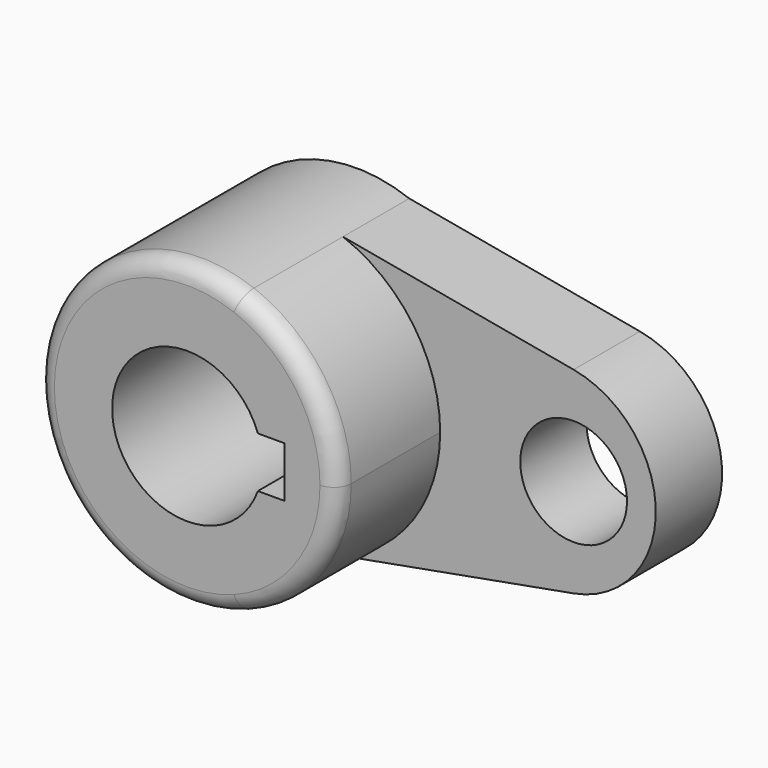
from build123d import *

# Parameters (mm, degrees)
F0_R     = 10.16
F1_DEPTH = 15.7734
F2_DEPTH = 40.2336
F3_R     = 3.302


with BuildPart() as f1:
    # F0 (on Front) → F1 (new body)
    with BuildSketch(Plane.XZ):
        with BuildLine():
            ThreePointArc((10.077445, 26.73903), (23.499932, 16.256808), (28.575, 0))
            ThreePointArc((28.575, 0), (23.499932, -16.256808), (10.077445, -26.73903))
            Line((10.077445, -26.73903), (53.975, -18.741507))
            ThreePointArc((53.975, -18.741507), (69.610559, 0), (53.975, 18.741507))
            Line((53.975, 18.741507), (10.077445, 26.73903))
        make_face()
        with Locations((53.975, 0)):
            Circle(F0_R, mode=Mode.SUBTRACT)
    extrude(amount=F1_DEPTH)

    # F0 (on Front) → F2 (join)
    with BuildSketch(Plane.XZ):
        with BuildLine():
            ThreePointArc((10.077445, -26.73903), (23.499932, -16.256808), (28.575, 0))
            ThreePointArc((28.575, 0), (23.499932, 16.256808), (10.077445, 26.73903))
            ThreePointArc((10.077445, 26.73903), (-28.575, 0), (10.077445, -26.73903))
        make_face()
        with BuildLine():
            ThreePointArc((13.447765, -4.826), (-14.2875, 0), (13.447765, 4.826))
            Line((13.447765, 4.826), (18.5293, 4.826))
            Line((18.5293, 4.826), (18.5293, -4.826))
            Line((18.5293, -4.826), (13.447765, -4.826))
        make_face(mode=Mode.SUBTRACT)
    extrude(amount=F2_DEPTH)

    # F3
    f3_edges = [f1.edges().sort_by_distance(p)[0] for p in [
        (-10.077445, -40.2336, 26.73903),
    ]]
    fillet(f3_edges, radius=F3_R)


solid = f1.part
